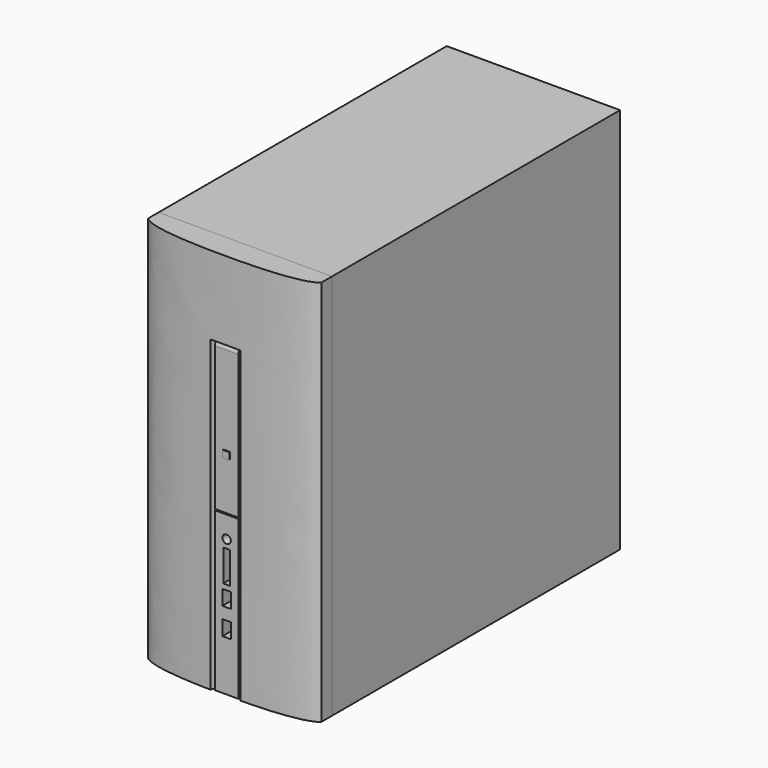
from build123d import *

# Parameters (mm, degrees)
F0_W      = 165.1
F0_H      = 342.9
F1_DEPTH  = 368.3
F2_W      = 165.1
F2_H      = 12.7
F3_DEPTH  = 368.3
F4_W      = 22.225
F4_H      = 15.875
F5_DEPTH  = 293.6875
F7_DEPTH  = 293.6875
F8_R      = 5.08
F9_W      = 22.225
F9_H      = 1.190625
F10_DEPTH = 3.175
F11_W     = 6.35
F11_H     = 6.35
F12_DEPTH = 0.79375
F13_R     = 3.96875
F13_W     = 6.35
F13_H     = 30.1625
F13_W_2   = 7.9375
F13_H_2   = 14.3002
F14_DEPTH = 22.225


with BuildPart() as f1:
    # F0 (on Top) → F1 (new body)
    with BuildSketch(Plane.XY):
        Rectangle(F0_W, F0_H)
    extrude(amount=F1_DEPTH)


with BuildPart() as f3:
    # F2 (on Top) → F3 (new body, through all)
    with BuildSketch(Plane.XY):
        with Locations((0, -177.8)):
            Rectangle(F2_W, F2_H)
        with BuildLine():
            Line((82.55, -184.15), (-82.55, -184.15))
            add(Edge.make_bspline(
                [(-82.55, -184.15), (-72.8849023581, -192.9987818003), (0, -197.5262181997), (72.8849023581, -192.9987818003), (82.55, -184.15)],
                knots=[0, 0, 0, 0, 0.5, 1, 1, 1, 1], degree=3))
        make_face()
    extrude(amount=F3_DEPTH)

    # F4 (on face) → F5 (cut)
    with BuildSketch(Plane(origin=(0, 0, 0), x_dir=(1, 0, 0), z_dir=(0, 0, -1))):
        with Locations((0, 179.3875)):
            Rectangle(F4_W, F4_H)
        Polygon((-14.3390173603, 195.2625), (-11.1125, 187.325), (11.1125, 187.325), (14.3390173603, 195.2625), align=None)
    extrude(amount=-F5_DEPTH, mode=Mode.SUBTRACT)


with BuildPart() as f7:
    # F6 (on face) → F7 (new body, through all)
    with BuildSketch(Plane(origin=(0, 0, 0), x_dir=(1, 0, 0), z_dir=(0, 0, -1))):
        Polygon((-11.1125, 193.675), (-11.1125, 171.45), (11.1125, 171.45), (11.1125, 187.325), (11.1125, 193.675), align=None)
    extrude(amount=-F7_DEPTH)

    # F8
    f8_edges = [f7.edges().sort_by_distance(p)[0] for p in [
        (0, -193.675, 293.6875),
    ]]
    fillet(f8_edges, radius=F8_R)

    # F9 (on face) → F10 (cut)
    with BuildSketch(Plane.XZ.offset(193.675)):
        with Locations((0, 151.4078125)):
            Rectangle(F9_W, F9_H)
    extrude(amount=-F10_DEPTH, mode=Mode.SUBTRACT)

    # F11 (on face) → F12 (join)
    with BuildSketch(Plane.XZ.offset(193.675)):
        with Locations((0, 201.215625)):
            Rectangle(F11_W, F11_H)
    extrude(amount=F12_DEPTH)

    # F13 (on face) → F14 (cut, through all)
    with BuildSketch(Plane.XZ.offset(193.675)):
        with Locations((0, 130.175)):
            Circle(F13_R)
        with Locations((0, 107.15625)):
            Rectangle(F13_W, F13_H)
        with Locations((0, 80.1751)):
            Rectangle(F13_W_2, F13_H_2)
        with Locations((0, 54.7751)):
            Rectangle(F13_W_2, F13_H_2)
    extrude(amount=-F14_DEPTH, mode=Mode.SUBTRACT)


solid = Compound([f1.part, f3.part, f7.part])
